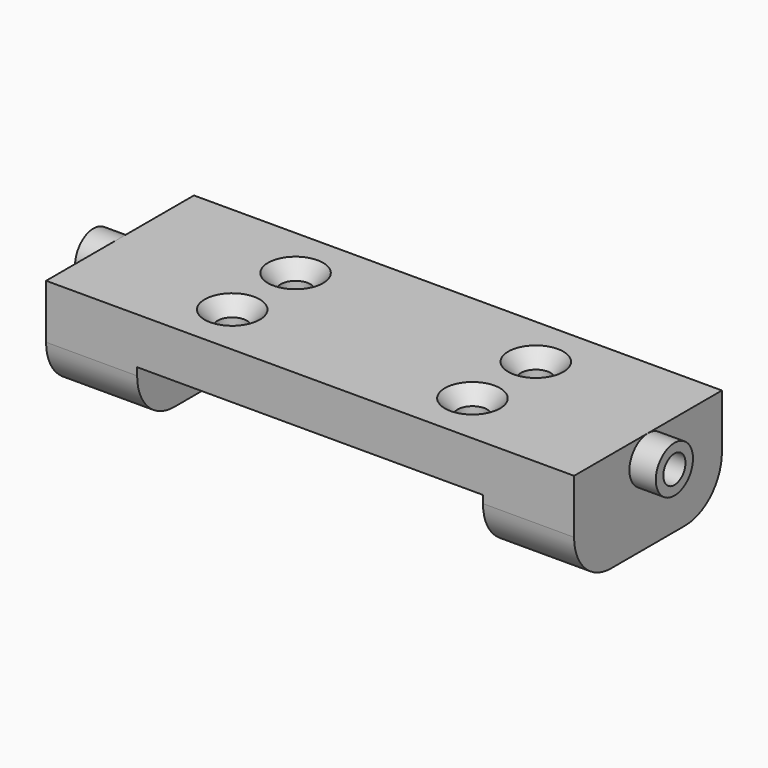
from build123d import *

# Parameters (mm, degrees)
F0_W           = 65.5
F0_H           = 35
F0_W_2         = 17.25
F1_DEPTH       = 1.5
F2_DEPTH       = 17.5
F3_DEPTH       = 7.3
F4_R           = 4.4
F4_R_2         = 2.625
F5_DEPTH       = 55
F6_DEPTH       = 55.001
F6_DEPTH_BACK  = 55.001
F7_R           = 8.75
F9_D           = 5.6134
F9_CSINK_D     = 10.4394
F9_CSINK_ANGLE = 82


with BuildPart() as f1:
    # F0 (on Top) → F1 (new body)
    with BuildSketch(Plane.XY):
        Rectangle(F0_W, F0_H)
        with Locations((-41.375, 0)):
            Rectangle(F0_W_2, F0_H)
        with Locations((41.375, 0)):
            Rectangle(F0_W_2, F0_H)
    extrude(amount=F1_DEPTH)

    # F0 (on Top) → F2 (join)
    with BuildSketch(Plane.XY):
        with Locations((-41.375, 0)):
            Rectangle(F0_W_2, F0_H)
        with Locations((41.375, 0)):
            Rectangle(F0_W_2, F0_H)
    extrude(amount=-F2_DEPTH)

    # F0 (on Top) → F3 (join)
    with BuildSketch(Plane.XY):
        Rectangle(F0_W, F0_H)
    extrude(amount=-F3_DEPTH)

    # F4 (on Right) → F5 (join, symmetric)
    with BuildSketch(Plane.YZ):
        with Locations((0, -2.9)):
            Circle(F4_R)
        with Locations((0, -2.9)):
            Circle(F4_R_2, mode=Mode.SUBTRACT)
    extrude(amount=F5_DEPTH, both=True)

    # F4 (on Right) → F6 (cut, two sides)
    with BuildSketch(Plane.YZ) as f6_sk:
        with Locations((0, -2.9)):
            Circle(F4_R_2)
    extrude(amount=-F6_DEPTH, mode=Mode.SUBTRACT)
    extrude(f6_sk.sketch, amount=F6_DEPTH_BACK, mode=Mode.SUBTRACT)

    # F7
    f7_edges = [f1.edges().sort_by_distance(p)[0] for p in [
        (41.375, -17.5, -17.5),
        (41.375, 17.5, -17.5),
        (-41.375, -17.5, -17.5),
        (-41.375, 17.5, -17.5),
    ]]
    fillet(f7_edges, radius=F7_R)

    # F9 (through all)
    with Locations(Plane.XY.offset(1.5)):
        with Locations((-22.75, 7.5), (-22.75, -7.5), (22.75, -7.5), (22.75, 7.5)):
            CounterSinkHole(F9_D / 2, F9_CSINK_D / 2, counter_sink_angle=F9_CSINK_ANGLE)


solid = f1.part
